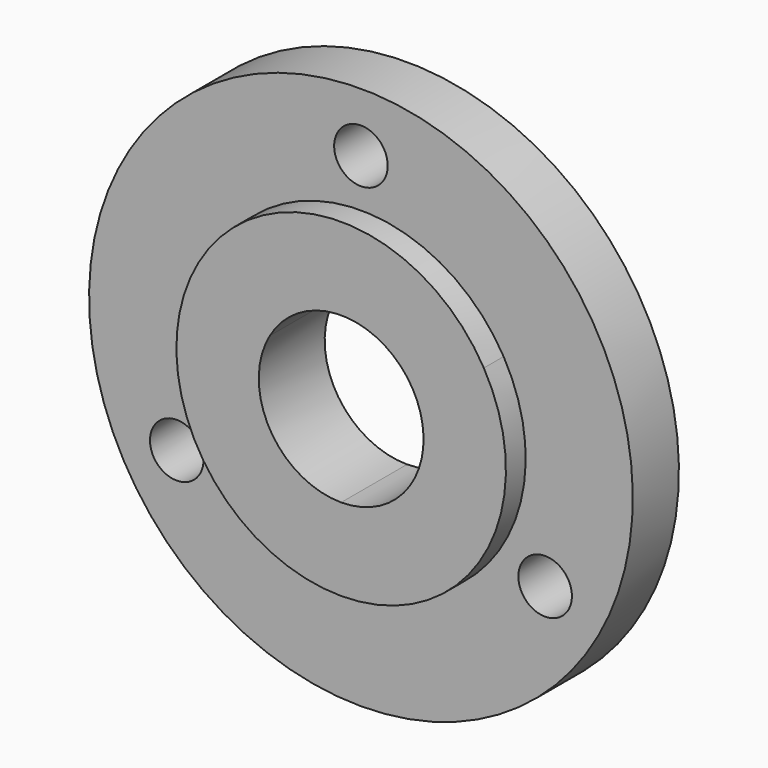
from build123d import *

# Parameters (mm, degrees)
F0_R     = 3.25
F1_DEPTH = 7
F2_DEPTH = 10
F3_COUNT = 3


with BuildPart() as f1:
    # F0 (on Front) → F1 (new body)
    with BuildSketch(Plane.XZ):
        with BuildLine():
            Line((17.3205080757, 10), (28.5788383249, 16.5))
            ThreePointArc((28.5788383249, 16.5), (0, 33), (-28.5788383249, 16.5))
            Line((-28.5788383249, 16.5), (-17.3205080757, 10))
            ThreePointArc((-17.3205080757, 10), (0, 20), (17.3205080757, 10))
        make_face()
        with Locations((0, 25.8179008961)):
            Circle(F0_R, mode=Mode.SUBTRACT)
    extrude(amount=F1_DEPTH)

    # F0 (on Front) → F2 (join)
    with BuildSketch(Plane.XZ):
        with BuildLine():
            Line((8.6602540378, 5), (17.3205080757, 10))
            ThreePointArc((17.3205080757, 10), (0, 20), (-17.3205080757, 10))
            Line((-17.3205080757, 10), (-8.6602540378, 5))
            ThreePointArc((-8.6602540378, 5), (0, 10), (8.6602540378, 5))
        make_face()
    extrude(amount=F2_DEPTH)

    # F3: F1 ×3 about axis
    f3_axis = Axis((0, 0, 0), (0, -1, 0))


with BuildPart() as f1_1:
    add(f1.part)
    for i in range(1, F3_COUNT):
        add(f1.part.rotate(f3_axis, i * 360 / F3_COUNT))


solid = f1_1.part
